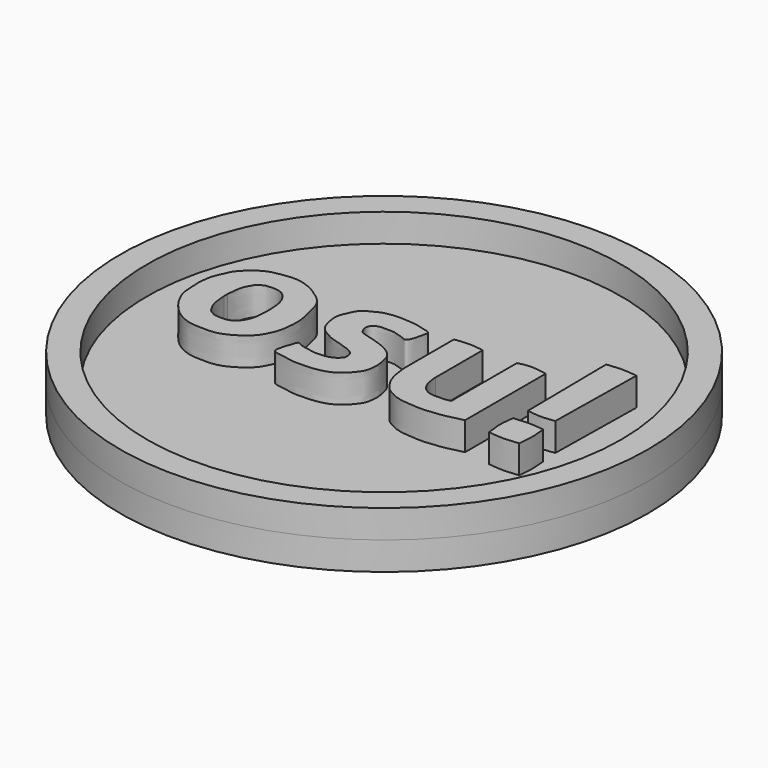
from build123d import *

# Parameters (mm, degrees)
F0_R     = 23.8125
F0_R_2   = 21.3994998485
F1_DEPTH = 2.54
F2_R     = 23.8125
F3_DEPTH = 2.54


with BuildPart() as f1:
    # F0 (on Top) → F1 (new body)
    with BuildSketch(Plane.XY):
        Circle(F0_R)
        Circle(F0_R_2, mode=Mode.SUBTRACT)
    extrude(amount=F1_DEPTH)


with BuildPart() as f1b:
    # F0 (on Top) → F1, piece 2 (new body)
    with BuildSketch(Plane.XY):
        with BuildLine():
            add(Edge.make_bspline(
                [(-12.1880676597, 4.8047737218), (-11.8374071677, 4.8228303349), (-11.230788355, 4.7731518626), (-10.1877352089, 4.3928011388), (-9.4902679234, 3.9236381338), (-8.7064227224, 3.378900954), (-8.1051624399, 2.5346418103), (-7.8459291422, 1.0768808068), (-7.5654143188, 0.0347170832), (-7.6733802778, -1.0960990309), (-7.7326478686, -1.9307494788), (-8.1861956611, -2.9730288983), (-8.6259005123, -3.7140629971), (-9.7933338822, -4.617763061), (-11.0310911715, -5.1663335779), (-12.2734225263, -5.1648263706), (-13.5688099656, -5.1455430696), (-14.7955478973, -4.5249168684), (-15.4575281291, -3.8957857985), (-16.0013485445, -3.232505377), (-16.4025925552, -2.550063976), (-16.7632547822, -1.6658951133), (-16.7762188689, -0.7867338104), (-16.8651186076, -0.0097521749), (-16.7342126424, 1.3663101266), (-16.3341242331, 2.1142833297), (-16.0407894971, 2.9304864216), (-15.5015574603, 3.4614238111), (-15.1924508517, 3.7980748172), (-14.822859897, 4.071641427), (-14.1107488958, 4.4891738234), (-13.4060923177, 4.6534955526), (-12.5811685268, 4.7845317203), (-12.1880676597, 4.8047737218)],
                knots=[0, 0, 0, 0, 0.0323111756, 0.0662500294, 0.096490327, 0.1279313651, 0.16100872, 0.2005892685, 0.2351361854, 0.2693133431, 0.2996382271, 0.333803153, 0.3644268309, 0.4037162795, 0.4418900789, 0.4779926522, 0.5153194854, 0.553202865, 0.5845528096, 0.6144474426, 0.6436878387, 0.6755438335, 0.705784127, 0.7351934536, 0.7731959712, 0.8037540153, 0.8339432098, 0.8622158201, 0.8840062461, 0.9060899622, 0.9353203182, 0.9637782087, 1, 1, 1, 1], degree=3))
        make_face()
        with BuildLine():
            add(Edge.make_bspline(
                [(-14.1345746815, -0.3652453888), (-14.1345746815, -0.3086325277), (-14.1345746815, -0.192104356), (-14.1345746815, -0.0652333087), (-14.1345746815, 0)],
                knots=[0, 0, 0, 0, 0.4858298242, 1, 1, 1, 1], degree=3))
            add(Edge.make_bspline(
                [(-14.1345746815, 0), (-14.128627191, 0.1368021732), (-14.1149581214, 0.4166493614), (-14.052583419, 0.8945401192), (-13.9693186386, 1.3692125259), (-13.7845808306, 1.8180075468), (-13.6186452136, 2.0413197592), (-13.4965141653, 2.3308747905), (-13.2038229023, 2.508844133), (-12.9282931651, 2.6728330502), (-12.650338622, 2.7160012859), (-11.9128635767, 2.7654873268), (-11.3214755772, 2.5861332775), (-10.9123185699, 2.2450218951), (-10.543032713, 1.6307127843), (-10.3816267317, 1.017835068), (-10.3364430172, 0.2322531111), (-10.3182664366, 0.0623582138), (-10.3250015527, 0)],
                knots=[0, 0, 0, 0, 0.0595559039, 0.1235090239, 0.1885999906, 0.2522455244, 0.3009685548, 0.3513220717, 0.4051632031, 0.456408112, 0.5051387616, 0.5839880215, 0.6566990508, 0.7230290571, 0.7997179375, 0.8757714359, 0.9566982882, 1, 1, 1, 1], degree=3))
            add(Edge.make_bspline(
                [(-10.3250015527, -0.3652453888), (-10.3250015527, -0.3086325277), (-10.3250015527, -0.192104356), (-10.3250015527, -0.0652333087), (-10.3250015527, 0)],
                knots=[0, 0, 0, 0, 0.4858298242, 1, 1, 1, 1], degree=3))
            add(Edge.make_bspline(
                [(-14.1345746815, -0.3652453888), (-14.128627191, -0.502047562), (-14.1149581214, -0.7818947503), (-14.052583419, -1.259785508), (-13.9693186386, -1.7344579147), (-13.7845808306, -2.1832529356), (-13.6186452136, -2.4065651481), (-13.4965141653, -2.6961201793), (-13.2038229023, -2.8740895219), (-12.9282931651, -3.038078439), (-12.650338622, -3.0812466748), (-11.9128635767, -3.1307327156), (-11.3214755772, -2.9513786663), (-10.9123185699, -2.6102672839), (-10.543032713, -1.9959581731), (-10.3816267317, -1.3830804568), (-10.3364430172, -0.5974985), (-10.3182664366, -0.4276036027), (-10.3250015527, -0.3652453888)],
                knots=[0, 0, 0, 0, 0.0595559039, 0.1235090239, 0.1885999906, 0.2522455244, 0.3009685548, 0.3513220717, 0.4051632031, 0.456408112, 0.5051387616, 0.5839880215, 0.6566990508, 0.7230290571, 0.7997179375, 0.8757714359, 0.9566982882, 1, 1, 1, 1], degree=3))
        make_face(mode=Mode.SUBTRACT)
    extrude(amount=F1_DEPTH)


with BuildPart() as f1c:
    # F0 (on Top) → F1, piece 3 (new body)
    with BuildSketch(Plane.XY):
        with BuildLine():
            add(Edge.make_bspline(
                [(-6.1128046364, -4.6400567517), (-6.2005409123, -4.4932817862), (-6.0614928118, -4.0513388083), (-6.0280429654, -3.6614761265), (-5.7744506176, -3.2036779456), (-5.6707525554, -2.5055944252), (-5.2075068794, -2.8719444162), (-4.7216367545, -2.951619219), (-4.1044305192, -3.0770809181), (-3.6341234763, -3.1490766266), (-2.788373094, -3.1029099094), (-2.1482133451, -2.8968280543), (-1.7363419466, -2.5147998956), (-1.6037406806, -2.2834633982), (-1.6376917539, -1.8553055781), (-1.8112877703, -1.5362719166), (-2.1960999034, -1.2703722611), (-2.7365364858, -1.140169072), (-3.1958056354, -0.9372936178), (-4.0991627812, -0.7412140472), (-4.6707809656, -0.4258072344), (-5.0293887325, -0.2274899466), (-5.3241486671, -0.0033414564), (-5.632409697, 0.3100319326), (-5.8410793301, 0.8615820767), (-5.9431072749, 1.3460076941), (-6.0079679156, 1.7214184553), (-6.019921797, 2.1539154906), (-5.9015444987, 2.6161495554), (-5.6988523355, 2.9770193198), (-5.5414787728, 3.4459728323), (-5.1681758296, 3.9539959624), (-4.7744877327, 4.1419634867), (-4.3380351299, 4.3806084124), (-3.9226100928, 4.6003890411), (-3.3073642082, 4.7278913234), (-2.6737283174, 4.8127730185), (-1.8843937036, 4.7775214966), (-0.820594382, 4.7160132953), (-0.0656106383, 4.4502696765), (0.7029744902, 4.3382068071), (0.5146874927, 3.7894197587), (0.422281356, 3.2735125402), (0.3303039537, 2.9193705586), (0.0519092388, 2.2734180359), (-0.3537717561, 2.5186000327), (-0.6914003926, 2.6014117803), (-1.3468510547, 2.8565442004), (-1.8785607673, 2.8091127999), (-2.3381341636, 2.856028106), (-2.9039928648, 2.7806439758), (-3.2191787036, 2.5423794396), (-3.4398488296, 2.0710384617), (-3.1107985798, 1.3586473039), (-2.7160156935, 1.2767569753), (-0.9275219232, 0.7534727539), (-0.279481576, 0.3993984329), (0.2931749047, 0.0289406713), (0.6965591738, -0.5609280267), (0.8162233215, -1.2801874166), (0.9184659688, -1.7396224049), (0.8743364571, -2.5705550729), (0.7145050131, -3.1323988554), (0.3580221938, -3.6116595611), (0.0066904057, -4.0228085416), (-0.4753701685, -4.4608757218), (-1.1901182079, -4.8574478382), (-2.3048283952, -5.1033986031), (-3.0881683262, -5.1209907754), (-4.000516704, -5.1700131792), (-5.2030113416, -4.9098074439), (-6.0038960209, -4.822251153), (-6.1128046364, -4.6400567517)],
                knots=[0, 0, 0, 0, 0.0141277047, 0.0260737474, 0.0399480977, 0.053484861, 0.0652673321, 0.0789129068, 0.0935099353, 0.1065717269, 0.1235932999, 0.1391726499, 0.1527293907, 0.162171267, 0.173999015, 0.1851743506, 0.1977280088, 0.2114798611, 0.2248845417, 0.2428216554, 0.2580476242, 0.2698148664, 0.2810097458, 0.293297079, 0.3076315818, 0.3208251043, 0.332274883, 0.3445021989, 0.3573233694, 0.3692694123, 0.3824629269, 0.3970679478, 0.4094025249, 0.4224194994, 0.4352641819, 0.4499325555, 0.4648356658, 0.4815024828, 0.5007380726, 0.5180931615, 0.5326480446, 0.5450796293, 0.5587390249, 0.570662473, 0.5847903999, 0.5957986265, 0.6072172552, 0.622692454, 0.6363409391, 0.6490969077, 0.66296852, 0.6744182993, 0.6873870064, 0.7027791032, 0.7147251466, 0.7399601745, 0.756739476, 0.7715960695, 0.7873051948, 0.8029811514, 0.8160004567, 0.8327948575, 0.8472212344, 0.861393052, 0.8751480435, 0.8899919744, 0.9069663884, 0.9268351288, 0.9433989375, 0.9610064352, 0.9824630264, 1, 1, 1, 1], degree=3))
        make_face()
    extrude(amount=F1_DEPTH)


with BuildPart() as f1d:
    # F0 (on Top) → F1, piece 4 (new body)
    with BuildSketch(Plane.XY):
        with BuildLine():
            add(Edge.make_bspline(
                [(2.6446119882, 4.576775711), (2.7446453625, 4.5813831867), (2.9305793848, 4.5926254475), (3.1464664713, 4.6323721323), (3.6117918811, 4.6787353704), (4.2587375434, 4.6940837412), (4.6926244012, 4.626500449), (5.0800824037, 4.5846249628), (5.2060653992, 4.5505248412), (5.2573611028, 4.5364242978)],
                knots=[0, 0, 0, 0, 0.1268215149, 0.2370680064, 0.3990644122, 0.5926435292, 0.7537080347, 0.8999686712, 1, 1, 1, 1], degree=3))
            Line((2.6446119882, 4.576775711), (2.6446119882, -0.8271044935))
            add(Edge.make_bspline(
                [(2.6446119882, -0.8271044935), (2.6448390664, -0.9182947077), (2.6452835571, -1.0967935624), (2.6751542438, -1.3358577254), (2.725523972, -1.7265988584), (2.7703288145, -2.0502850145), (2.8092069747, -2.3340593298), (2.8870393106, -2.5888660382), (3.0048443302, -2.8486701244), (3.0844784539, -3.139013475), (3.2347396899, -3.3408711776), (3.3759664935, -3.6114890652), (3.5252539355, -3.8007100712), (3.7110844119, -4.0643184607), (3.9872559129, -4.3130509758), (4.2440387297, -4.4624953645), (4.4699208614, -4.5911910018), (4.7955096195, -4.7504150074), (5.0699747523, -4.8717421624), (5.2848683602, -4.8947518335), (5.5353888219, -4.9992422649), (5.818614641, -5.0047192169), (6.1280214542, -5.0586201573), (6.5284088879, -5.0798681024), (6.7642376944, -5.1149348396), (7.7781528239, -5.1520810588), (8.0589856757, -5.0734017186), (8.7320154527, -5.0225839176), (9.1345469167, -4.9810301185), (9.6401788741, -4.8812217774), (9.9533348548, -4.7800818649), (10.429869111, -4.6808912851), (10.739298431, -4.6326527581), (10.889156034, -4.5811782868), (10.9573202208, -4.5577646233)],
                knots=[0, 0, 0, 0, 0.0278445918, 0.0545039595, 0.0883196947, 0.1196402801, 0.1482891721, 0.1760159289, 0.2049912635, 0.2343490008, 0.2615523818, 0.2910716522, 0.3176620682, 0.3482211987, 0.3813069291, 0.4105287034, 0.4380626939, 0.4707272478, 0.5002633569, 0.5251266728, 0.5528534214, 0.5813979753, 0.6122178537, 0.6452840915, 0.673544698, 0.7265869241, 0.758370117, 0.8012032982, 0.8371155418, 0.8748881981, 0.9066290789, 0.9440580463, 0.9745542588, 1, 1, 1, 1], degree=3))
            Line((10.9573202208, -4.5577646233), (10.9573202208, 4.5130020007))
            Line((10.9573202208, 4.5130020007), (10.7367578894, 4.5710215345))
            Line((10.7367578894, 4.5710215345), (10.4458425194, 4.6190074645))
            Line((10.4458425194, 4.6190074645), (10.1819187403, 4.6549970284))
            Line((10.1819187403, 4.6549970284), (9.9149961025, 4.6819890849))
            Line((9.9149961025, 4.6819890849), (9.6420748159, 4.7089816071))
            Line((9.6420748159, 4.7089816071), (9.3084322289, 4.6959728934))
            Line((9.3084322289, 4.6959728934), (8.9232409373, 4.6531739645))
            Line((8.9232409373, 4.6531739645), (8.6433645338, 4.5950142667))
            Line((8.6433645338, 4.5950142667), (8.4994062781, 4.5620240271))
            Line((8.4994062781, 4.5620240271), (8.3654439077, 4.5130020007))
            Line((8.3654439077, 4.5130020007), (8.3654439077, -2.8686078731))
            add(Edge.make_bspline(
                [(5.2573611028, -0.7931732689), (5.2536176326, -0.8928507769), (5.2692957188, -1.0847136043), (5.302661936, -1.3373043071), (5.3466721574, -1.5400181936), (5.3712923873, -1.7782454903), (5.4656032416, -1.9651757288), (5.5287223626, -2.094520864), (5.6324024893, -2.3448312979), (5.7501821766, -2.459750147), (5.8855870532, -2.6146724068), (6.0994634655, -2.746538376), (6.2546972076, -2.8767590309), (6.5864996747, -2.9604000495), (6.74408426, -2.9663042073), (7.0301610338, -3.0025333151), (7.5784638123, -2.9572943857), (7.8140899293, -2.9825931503), (8.1117216846, -2.9192532507), (8.2519557327, -2.9031455051), (8.3654439077, -2.8686078731)],
                knots=[0, 0, 0, 0, 0.0607446674, 0.1168656808, 0.1678342603, 0.2225230108, 0.2726965238, 0.3159942918, 0.3731803882, 0.4188895424, 0.4691101725, 0.5245023007, 0.5759485436, 0.6398478701, 0.6842616886, 0.7439539023, 0.8269083432, 0.8827738585, 0.94134385, 1, 1, 1, 1], degree=3))
            Line((5.2573611028, -0.7931732689), (5.2573611028, 4.5364242978))
        make_face()
    extrude(amount=F1_DEPTH)


with BuildPart() as f1e:
    # F0 (on Top) → F1, piece 5 (new body)
    with BuildSketch(Plane.XY):
        with BuildLine():
            add(Edge.make_bspline(
                [(13.4035581723, 8.2899248227), (13.830492048, 8.3430154082), (14.7066789015, 8.4519720306), (15.6533652956, 8.3448501305), (16.1387659609, 8.2899248227)],
                knots=[0, 0, 0, 0, 0.4872635032, 1, 1, 1, 1], degree=3))
            Line((13.4035581723, 8.2899248227), (13.515916653, -0.6899379659))
            add(Edge.make_bspline(
                [(13.515916653, -0.6899379659), (13.9237276272, -0.7473669493), (14.7441334954, -0.8628985998), (15.5785978076, -0.7430689764), (15.998262912, -0.6828047917)],
                knots=[0, 0, 0, 0, 0.4970844189, 1, 1, 1, 1], degree=3))
            Line((15.998262912, -0.6828047917), (16.1387659609, 8.2899248227))
        make_face()
    extrude(amount=F1_DEPTH)


with BuildPart() as f1f:
    # F0 (on Top) → F1, piece 6 (new body)
    with BuildSketch(Plane.XY):
        with BuildLine():
            add(Edge.make_bspline(
                [(13.4035581723, -2.2067837417), (13.8396042006, -2.1608964314), (14.7274054218, -2.0674686567), (15.6627953741, -2.1717269698), (16.1387659609, -2.2247785237)],
                knots=[0, 0, 0, 0, 0.4911527693, 1, 1, 1, 1], degree=3))
            add(Edge.make_bspline(
                [(13.4155545384, -4.9359933473), (13.3502499256, -4.4723814784), (13.2206552907, -3.5523605425), (13.3429095862, -2.6529622259), (13.4035581723, -2.2067837417)],
                knots=[0, 0, 0, 0, 0.5039144772, 1, 1, 1, 1], degree=3))
            add(Edge.make_bspline(
                [(16.1387659609, -4.9359933473), (15.6998332315, -4.989511076), (14.8102829474, -5.0979712285), (13.8845175196, -4.9904567322), (13.4155545384, -4.9359933473)],
                knots=[0, 0, 0, 0, 0.4934321728, 1, 1, 1, 1], degree=3))
            add(Edge.make_bspline(
                [(16.1387659609, -2.2247785237), (16.1857287107, -2.6396107914), (16.2828651243, -3.4976380366), (16.1878459907, -4.4460909783), (16.1387659609, -4.9359933473)],
                knots=[0, 0, 0, 0, 0.4834721392, 1, 1, 1, 1], degree=3))
        make_face()
    extrude(amount=F1_DEPTH)


with BuildPart() as f3:
    # F2 (on Top) → F3 (new body)
    with BuildSketch(Plane.XY):
        Circle(F2_R)
    extrude(amount=-F3_DEPTH)


solid = Compound([f1.part, f1b.part, f1c.part, f1d.part, f1e.part, f1f.part, f3.part])
